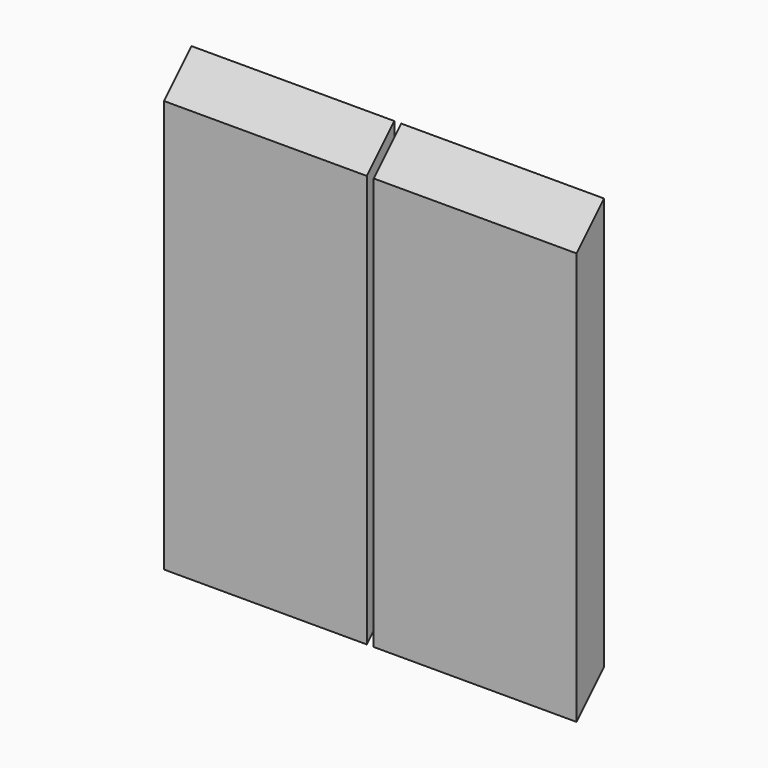
from build123d import *

# Parameters (mm, degrees)
F1_DEPTH = 60
F3_DEPTH = 1


with BuildPart() as f1:
    # F0 (on Right) → F1 (new body, symmetric)
    with BuildSketch(Plane.YZ):
        Polygon((-25, -60), (-25, -5), (-35, -5), (-35, -70), align=None)
        Polygon((-35, -5), (-25, -5), (-25, 60), (-35, 50), align=None)
    extrude(amount=F1_DEPTH, both=True)

    # F2 (on Right) → F3 (cut, symmetric)
    with BuildSketch(Plane.YZ):
        Polygon((-35, 65), (-35, -75), (-25, -75), (-25, -10), (-25, 65), align=None)
    extrude(amount=F3_DEPTH, both=True, mode=Mode.SUBTRACT)


solid = f1.part
